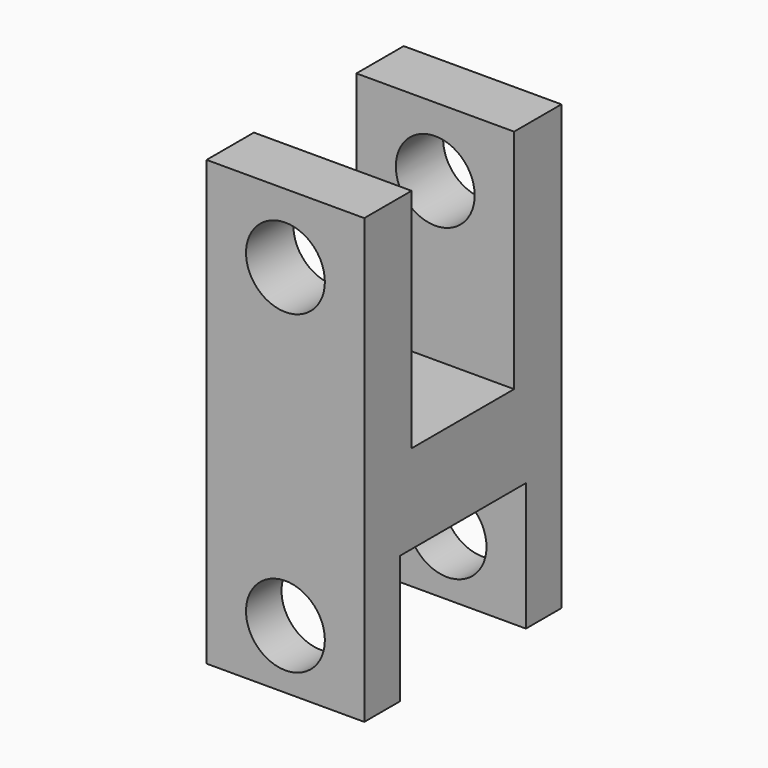
from build123d import *

# Parameters (mm, degrees)
F0_W     = 16
F0_H     = 45
F0_R     = 4
F1_DEPTH = 25
F2_W     = 16
F2_H     = 13
F2_W_2   = 13
F2_H_2   = 23
F3_DEPTH = 16.001


with BuildPart() as f1:
    # F0 (on Front) → F1 (new body)
    with BuildSketch(Plane.XZ):
        with Locations((0, 22.5)):
            Rectangle(F0_W, F0_H)
        with Locations((0, 6)):
            Circle(F0_R, mode=Mode.SUBTRACT)
        with Locations((0, 38)):
            Circle(F0_R, mode=Mode.SUBTRACT)
    extrude(amount=F1_DEPTH)

    # F2 (on face) → F3 (cut, through all)
    with BuildSketch(Plane.YZ.offset(8)):
        with Locations((-12.5, 6.5)):
            Rectangle(F2_W, F2_H)
        with Locations((-12.5, 33.5)):
            Rectangle(F2_W_2, F2_H_2)
    extrude(amount=-F3_DEPTH, mode=Mode.SUBTRACT)


solid = f1.part
